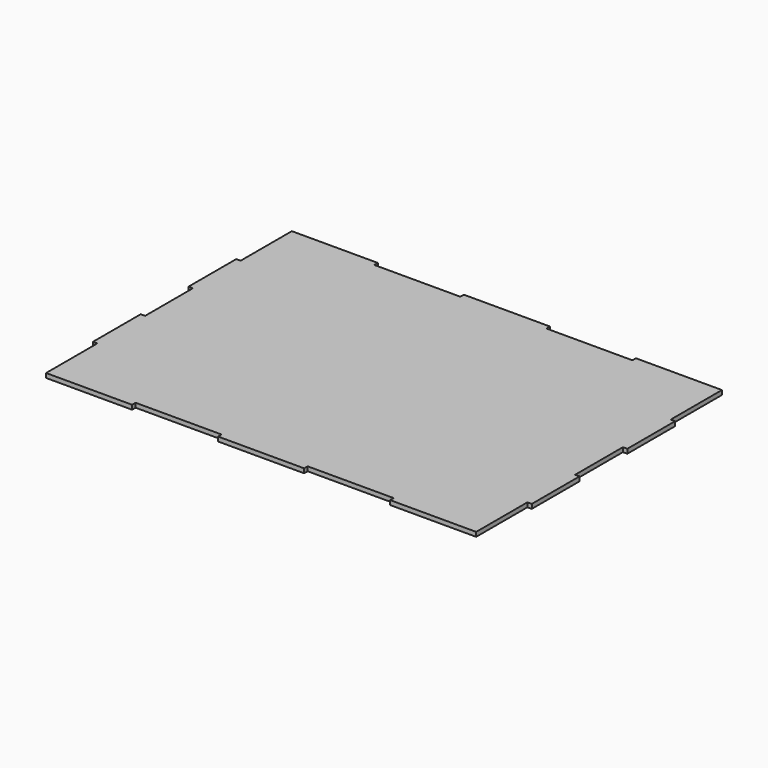
from build123d import *

# Parameters (mm, degrees)
F0_W     = 98
F0_H     = 5
F0_W_2   = 5
F0_H_2   = 68
F0_W_3   = 49
F1_DEPTH = 5


with BuildPart() as f1:
    # F0 (on Top) → F1 (new body)
    with BuildSketch(Plane.XY):
        with Locations((196, -172.5)):
            Rectangle(F0_W, F0_H)
        Polygon((147, -170), (245, -170), (245, -102), (245, -34), (245, 0), (0, 0), (0, -170), (49, -170), align=None)
        with Locations((247.5, -68)):
            Rectangle(F0_W_2, F0_H_2)
        with Locations((24.5, -172.5)):
            Rectangle(F0_W_3, F0_H)
        with Locations((-24.5, -172.5)):
            Rectangle(F0_W_3, F0_H)
        Polygon((-49, -170), (0, -170), (0, 0), (-245, 0), (-245, -34), (-245, -102), (-245, -170), (-147, -170), align=None)
        Polygon((0, 0), (245, 0), (245, 34), (245, 102), (245, 170), (147, 170), (49, 170), (0, 170), align=None)
        Polygon((-245, 0), (0, 0), (0, 170), (-49, 170), (-147, 170), (-245, 170), (-245, 102), (-245, 34), align=None)
        with Locations((247.5, 68)):
            Rectangle(F0_W_2, F0_H_2)
        with Locations((-196, -172.5)):
            Rectangle(F0_W, F0_H)
        with Locations((24.5, 172.5)):
            Rectangle(F0_W_3, F0_H)
        with Locations((-24.5, 172.5)):
            Rectangle(F0_W_3, F0_H)
        with Locations((-247.5, -68)):
            Rectangle(F0_W_2, F0_H_2)
        with Locations((-247.5, 68)):
            Rectangle(F0_W_2, F0_H_2)
        with Locations((196, 172.5)):
            Rectangle(F0_W, F0_H)
        with Locations((-196, 172.5)):
            Rectangle(F0_W, F0_H)
    extrude(amount=F1_DEPTH)


solid = f1.part
